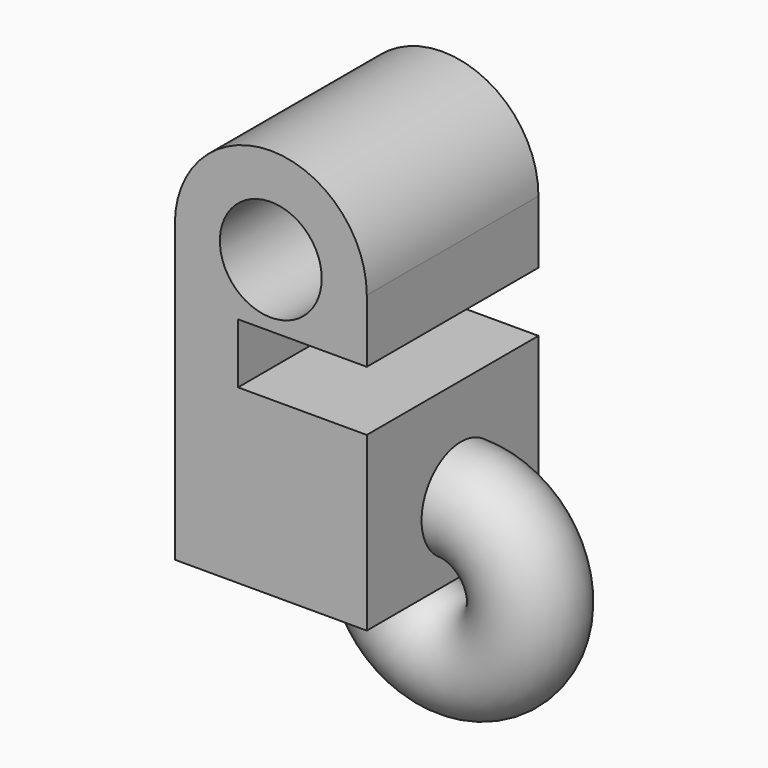
from build123d import *

# Parameters (mm, degrees)
F0_R     = 15.063186
F1_DEPTH = 63.5
F2_W     = 63.5
F2_H     = 17.738506
F3_DEPTH = 38.1
F4_R     = 14.591835


with BuildPart() as f1:
    # F0 (on Front) → F1 (new body)
    with BuildSketch(Plane.XZ):
        with BuildLine():
            Line((-28.397631, -43.692742), (28.397631, -43.692742))
            Line((28.397631, -43.692742), (28.397631, 43.692742))
            ThreePointArc((28.397631, 43.692742), (0, 72.090372), (-28.397631, 43.692742))
            Line((-28.397631, 43.692742), (-28.397631, -43.692742))
        make_face()
        with Locations((0, 43.692742)):
            Circle(F0_R, mode=Mode.SUBTRACT)
    extrude(amount=F1_DEPTH)

    # F2 (on face) → F3 (cut)
    with BuildSketch(Plane.YZ.offset(28.397631)):
        with Locations((-31.75, 16.151376)):
            Rectangle(F2_W, F2_H)
    extrude(amount=-F3_DEPTH, mode=Mode.SUBTRACT)

    # F4 (on face) → F5 (revolve)
    with BuildSketch(Plane.YZ.offset(28.397631)):
        with Locations((-28.650237, -23.23292)):
            Circle(F4_R)
    revolve(axis=Axis((28.397631, -31.75, -43.692742), (0, -1, 0)))


solid = f1.part
